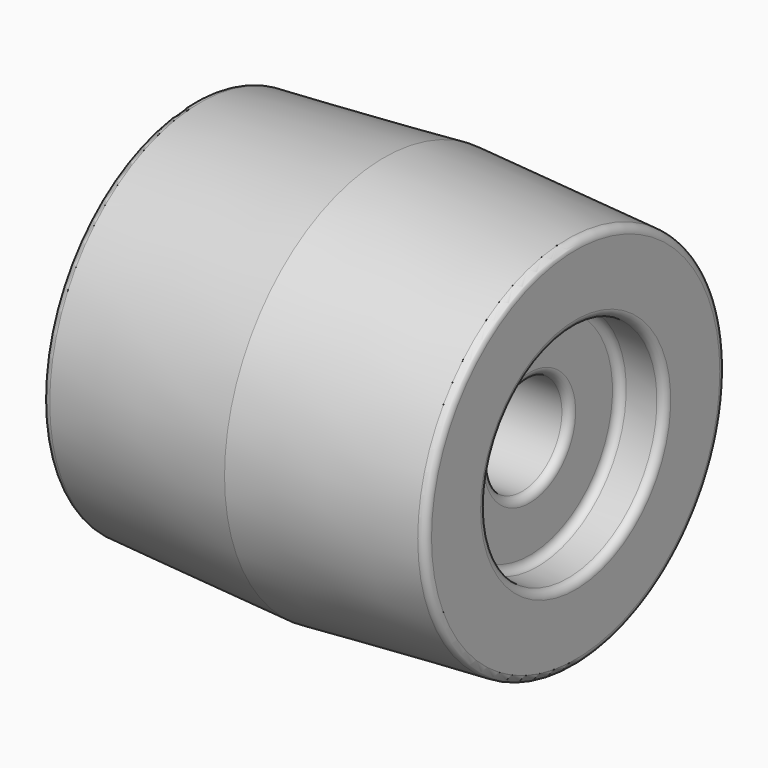
from build123d import *


with BuildPart() as f1:
    # F0 (on Top) → F1 (revolve)
    with BuildSketch(Plane.XY):
        with BuildLine():
            Line((18, -6.5), (0, -6.5))
            Line((0, -6.5), (-18, -6.5))
            ThreePointArc((-18, -6.5), (-18.707107, -6.792893), (-19, -7.5))
            Line((-19, -7.5), (-19, -13.5))
            ThreePointArc((-19, -13.5), (-19.292893, -14.207107), (-20, -14.5))
            Line((-20, -14.5), (-24, -14.5))
            ThreePointArc((-24, -14.5), (-24.707107, -14.792893), (-25, -15.5))
            Line((-25, -15.5), (-25, -23.5))
            ThreePointArc((-25, -23.5), (-24.707107, -24.207107), (-24, -24.5))
            Line((-24, -24.5), (0, -24.5))
            Line((0, -24.5), (24, -24.5))
            ThreePointArc((24, -24.5), (24.707107, -24.207107), (25, -23.5))
            Line((25, -23.5), (25, -15.5))
            ThreePointArc((25, -15.5), (24.707107, -14.792893), (24, -14.5))
            Line((24, -14.5), (20, -14.5))
            ThreePointArc((20, -14.5), (19.292893, -14.207107), (19, -13.5))
            Line((19, -13.5), (19, -7.5))
            ThreePointArc((19, -7.5), (18.707107, -6.792893), (18, -6.5))
        make_face()
        Polygon((0, -26), (24, -24.5), (0, -24.5), align=None)
        Polygon((0, -24.5), (-24, -24.5), (0, -26), align=None)
    revolve(axis=Axis((1.291273, 0, 0), (1, 0, 0)))


solid = f1.part
